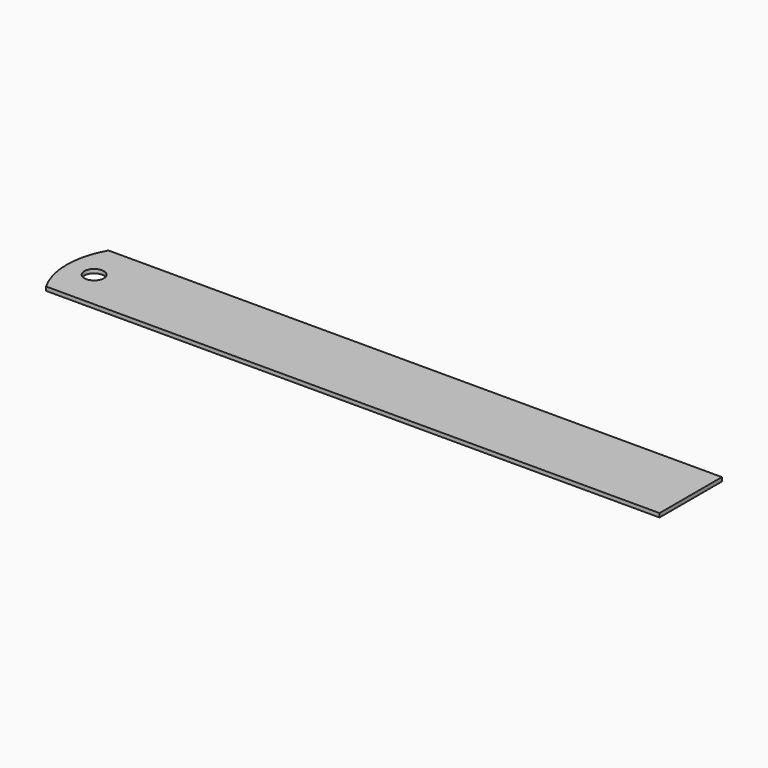
from build123d import *

# Parameters (mm, degrees)
F0_W     = 203.2
F0_H     = 1.27
F1_DEPTH = 25.4
F2_R     = 3.175
F3_DEPTH = 25.4


with BuildPart() as f1:
    # F0 (on Front) → F1 (new body)
    with BuildSketch(Plane.XZ):
        with Locations((-101.6, 0.635)):
            Rectangle(F0_W, F0_H)
    extrude(amount=F1_DEPTH)

    # F2 (on face) → F3 (cut)
    with BuildSketch(Plane.XY.offset(1.27)):
        with BuildLine():
            ThreePointArc((-199.797045, -25.4), (-202.334516, -19.274004), (-203.2, -12.7))
            Line((-203.2, -12.7), (-203.2, -25.4))
            Line((-203.2, -25.4), (-199.797045, -25.4))
        make_face()
        with BuildLine():
            ThreePointArc((-203.2, -12.7), (-202.334516, -6.125996), (-199.797045, 0))
            Line((-199.797045, 0), (-203.2, 0))
            Line((-203.2, 0), (-203.2, -12.7))
        make_face()
        with Locations((-194.31, -12.7)):
            Circle(F2_R)
    extrude(amount=-F3_DEPTH, mode=Mode.SUBTRACT)


solid = f1.part
